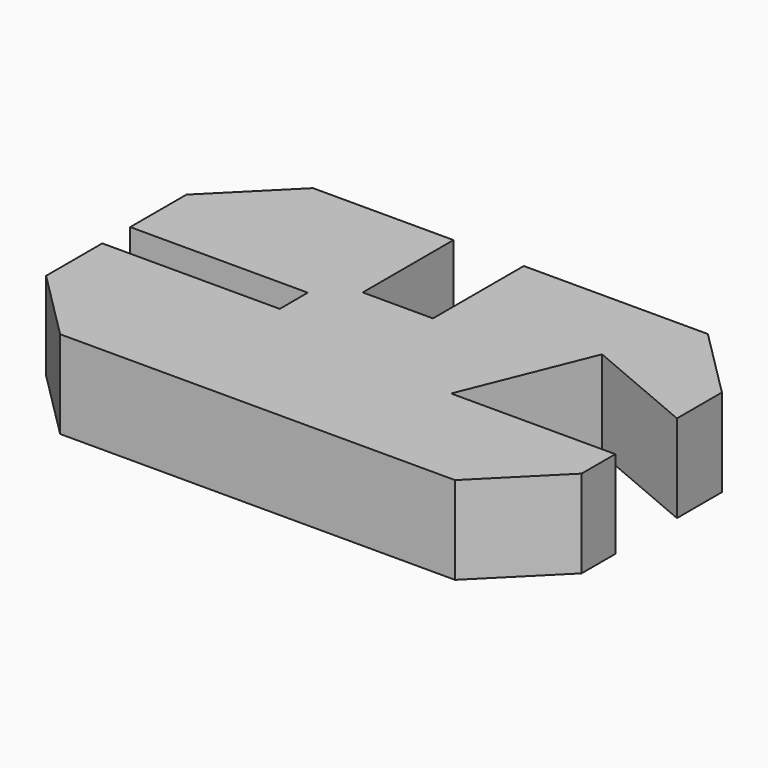
from build123d import *

# Parameters (mm, degrees)
F1_DEPTH = 25
F2_DEPTH = 25
F3_DEPTH = 25


with BuildPart() as f1:
    # F0 (on Top) → F1 (new body)
    with BuildSketch(Plane.XY):
        Polygon((-68.118282, -13.642474), (-48.10716, -33.653596), (64.29284, -33.653596), (84.303962, -13.642474), (84.303962, -1.642474), (82.862166, -1.642474), (37.562166, -1.642474), (51.98452, 34.054104), (84.251637, 20.357526), (84.251637, 36.357526), (64.240515, 56.368648), (11.840515, 56.368648), (11.840515, 24.068648), (-8.159485, 24.068648), (-8.159485, 56.368648), (-48.159485, 56.368648), (-68.170607, 36.357526), (-68.170607, 16.357526), (-17.618282, 16.357526), (-17.618282, 6.357526), (-68.118282, 6.357526), align=None)
    extrude(amount=F1_DEPTH)


with BuildPart() as f2:
    # F0 (on Top) → F2 (new body)
    with BuildSketch(Plane.XY):
        Polygon((-68.118282, -13.642474), (-48.10716, -33.653596), (64.29284, -33.653596), (84.303962, -13.642474), (84.303962, -1.642474), (82.862166, -1.642474), (37.562166, -1.642474), (51.98452, 34.054104), (84.251637, 20.357526), (84.251637, 36.357526), (64.240515, 56.368648), (11.840515, 56.368648), (11.840515, 24.068648), (-8.159485, 24.068648), (-8.159485, 56.368648), (-48.159485, 56.368648), (-68.170607, 36.357526), (-68.170607, 16.357526), (-17.618282, 16.357526), (-17.618282, 6.357526), (-68.118282, 6.357526), align=None)
    extrude(amount=F2_DEPTH)


with BuildPart() as f3:
    # F0 (on Top) → F3 (new body)
    with BuildSketch(Plane.XY):
        Polygon((-68.118282, -13.642474), (-48.10716, -33.653596), (64.29284, -33.653596), (84.303962, -13.642474), (84.303962, -1.642474), (82.862166, -1.642474), (37.562166, -1.642474), (51.98452, 34.054104), (84.251637, 20.357526), (84.251637, 36.357526), (64.240515, 56.368648), (11.840515, 56.368648), (11.840515, 24.068648), (-8.159485, 24.068648), (-8.159485, 56.368648), (-48.159485, 56.368648), (-68.170607, 36.357526), (-68.170607, 16.357526), (-17.618282, 16.357526), (-17.618282, 6.357526), (-68.118282, 6.357526), align=None)
    extrude(amount=F3_DEPTH)


solid = Compound([f1.part, f2.part, f3.part])
